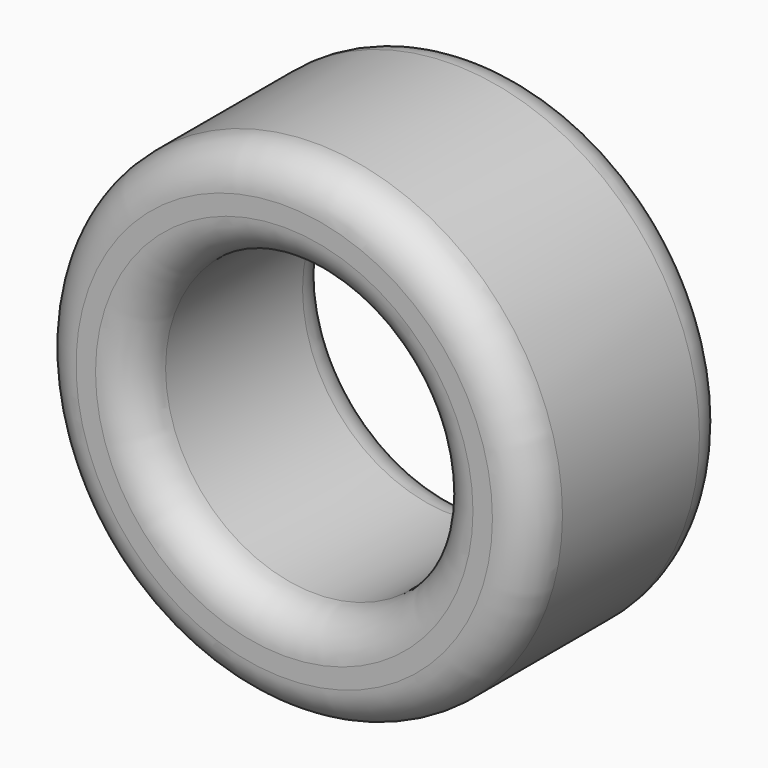
from build123d import *

# Parameters (mm, degrees)
F0_R     = 6.35
F0_R_2   = 3.85
F1_DEPTH = 3.2
F2_R     = 1


with BuildPart() as f1:
    # F0 (on Front) → F1 (new body, symmetric)
    with BuildSketch(Plane.XZ):
        with Locations((0, 6.7)):
            Circle(F0_R)
        with Locations((0, 6.7)):
            Circle(F0_R_2, mode=Mode.SUBTRACT)
    extrude(amount=F1_DEPTH, both=True)

    # F2
    f2_edges = [f1.edges().sort_by_distance(p)[0] for p in [
        (-6.35, 3.2, 6.7),
        (6.35, 0, 6.7),
        (-6.35, -3.2, 6.7),
        (-3.85, -3.2, 6.7),
        (3.85, 0, 6.7),
        (-3.85, 3.2, 6.7),
    ]]
    fillet(f2_edges, radius=F2_R)


solid = f1.part
